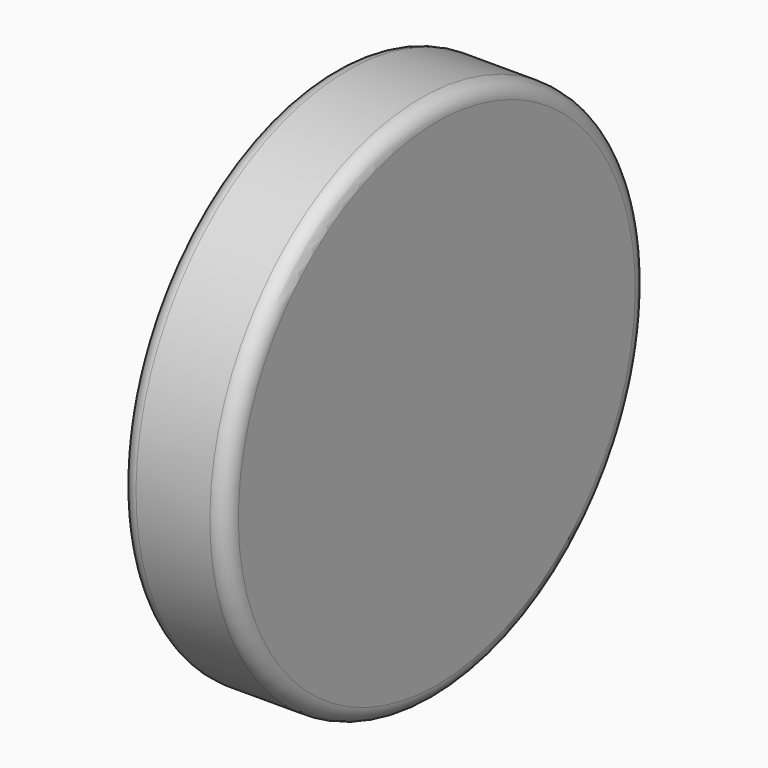
from build123d import *

# Parameters (mm, degrees)
SKETCH001_R  = 50
PAD001_DEPTH = 20
FILLET001_R  = 3
FILLET002_R  = 3


with BuildPart() as part:
    # Sketch001 → Pad001 (new body)
    with BuildSketch(Plane(origin=(90, 0, 0), x_dir=(0, 0, -1), z_dir=(1, 0, 0))):
        with Locations((0.73979, -0.924742)):
            Circle(SKETCH001_R)
    extrude(amount=PAD001_DEPTH)

    # Fillet001
    fillet001_edges = [part.edges().sort_by_distance(p)[0] for p in [
        (110, -0.924742, 49.26021),
    ]]
    fillet(fillet001_edges, radius=FILLET001_R)

    # Fillet002
    fillet002_edges = [part.edges().sort_by_distance(p)[0] for p in [
        (90, -0.924742, 49.26021),
    ]]
    fillet(fillet002_edges, radius=FILLET002_R)


solid = part.part
